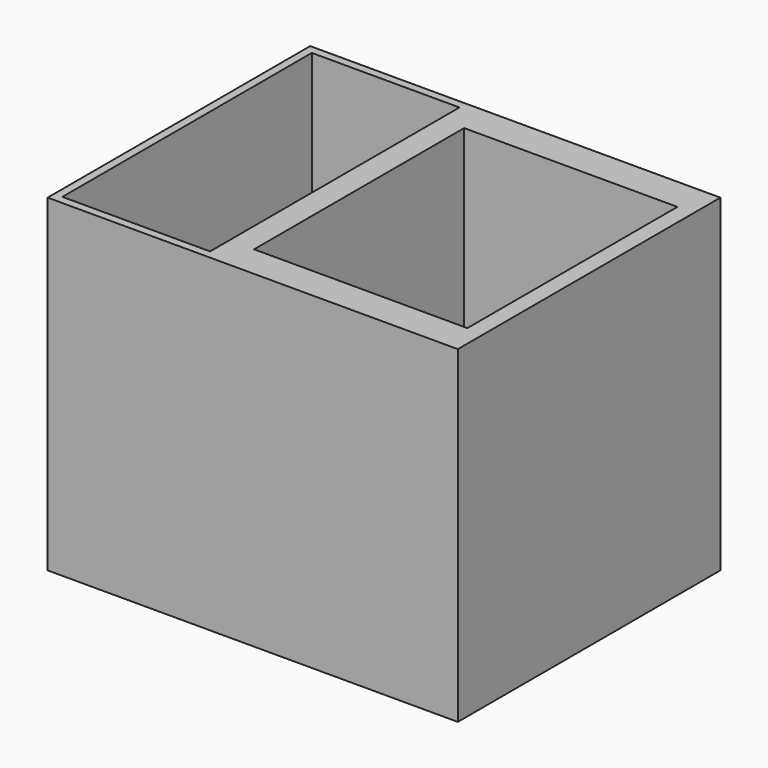
from build123d import *

# Parameters (mm, degrees)
F0_W     = 100
F0_H     = 200
F1_DEPTH = 200
F0_W_2   = 150
F2_DEPTH = 200
F3_W     = 90
F3_H     = 190
F4_DEPTH = 195
F5_W     = 100
F5_H     = 130
F7_DEPTH = 195
F6_W     = 130
F6_H     = 160
F6_W_2   = 100
F6_H_2   = 130
F8_DEPTH = 195


with BuildPart() as f1:
    # F0 (on Top) → F1 (new body)
    with BuildSketch(Plane.XY):
        Rectangle(F0_W, F0_H)
    extrude(amount=F1_DEPTH)

    # F0 (on Top) → F2 (join)
    with BuildSketch(Plane.XY):
        with Locations((125, 0)):
            Rectangle(F0_W_2, F0_H)
    extrude(amount=F2_DEPTH)

    # F3 (on face) → F4 (cut)
    with BuildSketch(Plane.XY.offset(200)):
        Rectangle(F3_W, F3_H)
    extrude(amount=-F4_DEPTH, mode=Mode.SUBTRACT)

    # F5 (on face) → F7 (cut)
    with BuildSketch(Plane.XY.offset(200)):
        with Locations((125, -0.22641)):
            Rectangle(F5_W, F5_H)
    extrude(amount=-F7_DEPTH, mode=Mode.SUBTRACT)

    # F6 (on face) → F8 (cut)
    with BuildSketch(Plane.XY.offset(200)):
        with Locations((125, -0.22641)):
            Rectangle(F6_W, F6_H)
        with Locations((125, -0.22641)):
            Rectangle(F6_W, F6_H)
        with Locations((125, -0.22641)):
            Rectangle(F6_W_2, F6_H_2, mode=Mode.SUBTRACT)
    extrude(amount=-F8_DEPTH, mode=Mode.SUBTRACT)


solid = f1.part
